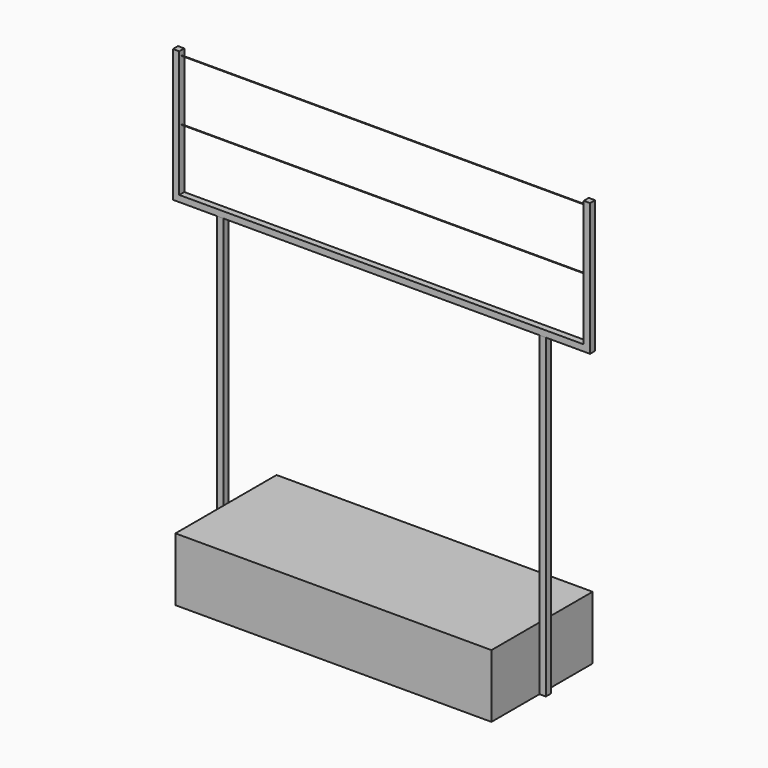
from build123d import *

# Parameters (mm, degrees)
F1_DEPTH  = 250
F3_DEPTH  = 714
F5_DEPTH  = 625
F7_DEPTH  = 608
F9_DEPTH  = 250
F11_DEPTH = 534
F15_W     = 25
F15_H     = 1250
F16_DEPTH = 12.5
F18_DEPTH = 12.5
F19_R     = 1
F20_DEPTH = 1600


with BuildPart() as f1:
    # F0 (on Front) → F1 (new body, symmetric)
    with BuildSketch(Plane.XZ):
        Polygon((-607, 18), (-625, 0), (625, 0), (607, 18), align=None)
    extrude(amount=F1_DEPTH, both=True)

    # F2 (on Right) → F3 (cut, symmetric)
    with BuildSketch(Plane.YZ):
        Polygon((-266.0376429558, 0), (-250, 0), (-231.0939141602, 18.9060858398), (-231.0939141602, 28.4129753709), (-266.0376429558, 28.4129753709), align=None)
        Polygon((231.0939141602, 18.9060858398), (250, 0), (262.9185318947, 0), (262.9185318947, 44.0045437723), (231.0939141602, 44.0045437723), align=None)
    extrude(amount=F3_DEPTH, both=True, mode=Mode.SUBTRACT)


with BuildPart() as f5:
    # F4 (on Right) → F5 (new body, symmetric)
    with BuildSketch(Plane.YZ):
        Polygon((232, 232), (232, 18), (250, 0), (250, 250), align=None)
    extrude(amount=F5_DEPTH, both=True)


with BuildPart() as f5b:
    # F4 (on Right) → F5, piece 2 (new body, symmetric)
    with BuildSketch(Plane.YZ):
        Polygon((-250, 0), (-232, 18), (-232, 232), (-250, 250), align=None)
    extrude(amount=F5_DEPTH, both=True)


with BuildPart() as f7_tool:
    # F6 (on Top) → F7 (new body, symmetric)
    with BuildSketch(Plane.XY):
        Polygon((-607, 232), (-625, 250), (-625, 212.7924200636), (-607, 212.7924200636), align=None)
        Polygon((-625, -250), (-607, -232), (-638.8453841209, -232), (-638.8453841209, -250), align=None)
        Polygon((625, 212.7924200636), (625, 250), (607, 232), (607, 212.7924200636), align=None)
        Polygon((638.8453841209, -250), (638.8453841209, -232), (607, -232), (625, -250), align=None)
    extrude(amount=F7_DEPTH, both=True)


with BuildPart() as f5_1:
    add(f5.part)

    # F7: cut by f7_tool
    add(f7_tool.part, mode=Mode.SUBTRACT)


with BuildPart() as f5b_1:
    add(f5b.part)

    # F7: cut by f7_tool
    add(f7_tool.part, mode=Mode.SUBTRACT)


with BuildPart() as f9:
    # F8 (on Front) → F9 (new body, symmetric)
    with BuildSketch(Plane.XZ):
        Polygon((-625, 250), (-625, 0), (-607, 18), (-607, 232), align=None)
    extrude(amount=F9_DEPTH, both=True)

    # F10 (on Top) → F11 (cut, symmetric)
    with BuildSketch(Plane.XY):
        Polygon((-596.8062881455, -232), (-607, -232), (-625, -250), (-625, -280.7182726889), (-596.8062881455, -280.7182726889), align=None)
        Polygon((-625, 250), (-607, 232), (-596.8062881455, 234.6027734251), (-596.8062881455, 288.4899377823), (-625, 288.4899377823), align=None)
    extrude(amount=F11_DEPTH, both=True, mode=Mode.SUBTRACT)


with BuildPart() as f12_1:
    # F12: instance of F9
    add(f9.part.mirror(Plane.YZ))


with BuildPart() as f14_1:
    # F14: instance of F1
    add(f1.part.mirror(Plane.XY.offset(125)))


with BuildPart() as f16:
    # F15 (on Front) → F16 (new body, symmetric)
    with BuildSketch(Plane.XZ):
        with Locations((637.5, 625)):
            Rectangle(F15_W, F15_H)
    extrude(amount=F16_DEPTH, both=True)


with BuildPart() as f16b:
    # F15 (on Front) → F16, piece 2 (new body, symmetric)
    with BuildSketch(Plane.XZ):
        with Locations((-637.5, 625)):
            Rectangle(F15_W, F15_H)
    extrude(amount=F16_DEPTH, both=True)


with BuildPart() as f18:
    # F17 (on Front) → F18 (new body, symmetric)
    with BuildSketch(Plane.XZ):
        Polygon((-825, 1275), (-825, 1250), (825, 1250), (825, 1275), (825, 1775), (800, 1775), (800, 1275), (-800, 1275), (-800, 1775), (-825, 1775), align=None)
    extrude(amount=F18_DEPTH, both=True)


with BuildPart() as f20:
    # F19 (on face) → F20 (new body, through all)
    with BuildSketch(Plane.YZ.offset(-800)):
        with Locations((0, 1755)):
            Circle(F19_R)
    extrude(amount=F20_DEPTH)


with BuildPart() as f21_1:
    # F21: copy of F20
    add(f20.part.moved(Location((0, 0, -240))))


solid = Compound([f1.part, f5_1.part, f5b_1.part, f9.part, f12_1.part, f14_1.part, f16.part, f16b.part, f18.part, f20.part, f21_1.part])
